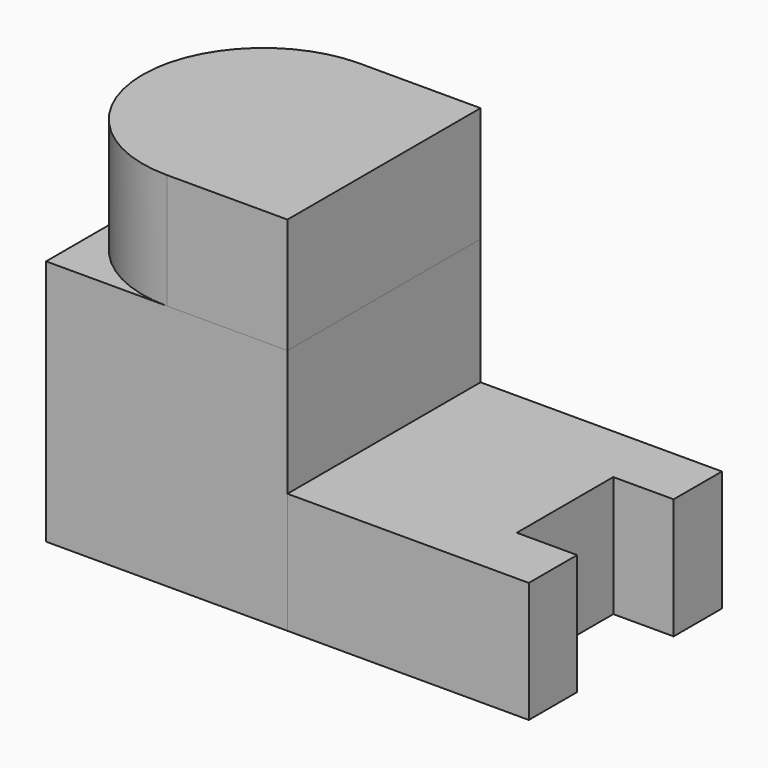
from build123d import *

# Parameters (mm, degrees)
F0_W     = 6.35
F0_H     = 12.7
F0_W_2   = 12.7
F1_DEPTH = 25.4
F2_W     = 6.35
F2_H     = 12.7
F3_DEPTH = 12.701
F5_DEPTH = 25.4
F6_W     = 25.4
F6_H     = 25.971629
F7_DEPTH = 25.4


with BuildPart() as f1:
    # F0 (on Right) → F1 (new body)
    with BuildSketch(Plane.YZ):
        with Locations((3.175, 6.35)):
            Rectangle(F0_W, F0_H)
        with Locations((12.7, 6.35)):
            Rectangle(F0_W_2, F0_H)
        with Locations((22.225, 6.35)):
            Rectangle(F0_W, F0_H)
    extrude(amount=F1_DEPTH)

    # F2 (on face) → F3 (cut, through all)
    with BuildSketch(Plane.XY.offset(12.7)):
        with Locations((22.225, 12.7)):
            Rectangle(F2_W, F2_H)
    extrude(amount=-F3_DEPTH, mode=Mode.SUBTRACT)


with BuildPart() as f5:
    # F4 (on face) → F5 (new body)
    with BuildSketch(Plane.XY.offset(12.7)):
        with BuildLine():
            Line((-12.7, 0), (0, 0))
            Line((0, 0), (0, 25.4))
            Line((0, 25.4), (-12.7, 25.4))
            ThreePointArc((-12.7, 25.4), (-25.4, 12.7), (-12.7, 0))
        make_face()
    extrude(amount=F5_DEPTH)


with BuildPart() as f7:
    # F6 (on face) → F7 (new body)
    with BuildSketch(Plane(origin=(0, 0, 0), x_dir=(0, -1, 0), z_dir=(-1, 0, 0))):
        with Locations((-12.7, 12.985815)):
            Rectangle(F6_W, F6_H)
    extrude(amount=F7_DEPTH)


solid = Compound([f1.part, f5.part, f7.part])
